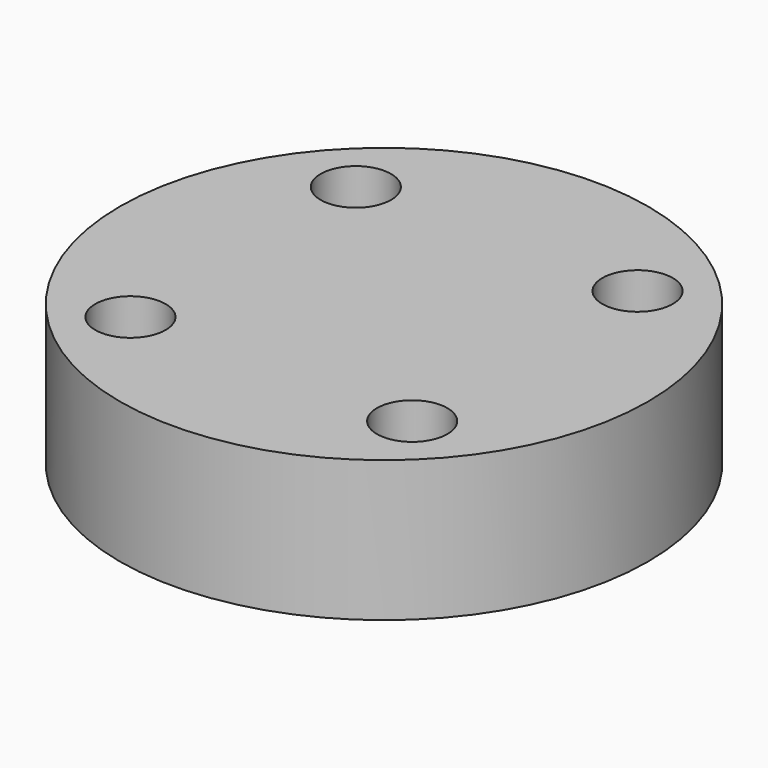
from build123d import *

# Parameters (mm, degrees)
CYLINDER1330_R     = 1
CYLINDER1330_DEPTH = 20
CYLINDER1335_R     = 1
CYLINDER1335_DEPTH = 20
CYLINDER1325_R     = 1
CYLINDER1325_DEPTH = 20
CYLINDER1337_R     = 1
CYLINDER1337_DEPTH = 20
CYLINDER1322_R     = 7.5
CYLINDER1322_DEPTH = 4


with BuildPart() as obj1:
    # Cylinder1330 → Cylinder1330 (new body)
    with BuildSketch(Plane(origin=(4, -4, -88), x_dir=(0, 1, 0), z_dir=(0, 0, 1))):
        Circle(CYLINDER1330_R)
    extrude(amount=CYLINDER1330_DEPTH)


with BuildPart() as obj2:
    # Cylinder1335 → Cylinder1335 (new body)
    with BuildSketch(Plane(origin=(4, 4, -88), x_dir=(-1, 0, 0), z_dir=(0, 0, 1))):
        Circle(CYLINDER1335_R)
    extrude(amount=CYLINDER1335_DEPTH)


with BuildPart() as obj3:
    # Cylinder1325 → Cylinder1325 (new body)
    with BuildSketch(Plane(origin=(-4, 4, -88), x_dir=(0, -1, 0), z_dir=(0, 0, 1))):
        Circle(CYLINDER1325_R)
    extrude(amount=CYLINDER1325_DEPTH)


with BuildPart() as compound941:
    # Cylinder1337 → Cylinder1337 (new body)
    with BuildSketch(Plane(origin=(-4, -4, -88), x_dir=(1, 0, 0), z_dir=(0, 0, 1))):
        Circle(CYLINDER1337_R)
    extrude(amount=CYLINDER1337_DEPTH)

    # Compound941: union obj1, obj2, obj3
    add(obj1.part)
    add(obj2.part)
    add(obj3.part)


with BuildPart() as compound941_1:
    # Compound941 placement: moved
    add(compound941.part.moved(Location((0, 0, 91))))


with BuildPart() as cut479:
    # Cylinder1322 → Cylinder1322 (new body)
    with BuildSketch(Plane.XY.offset(15)):
        Circle(CYLINDER1322_R)
    extrude(amount=CYLINDER1322_DEPTH)

    # Cut479: cut Compound941
    add(compound941_1.part, mode=Mode.SUBTRACT)


solid = cut479.part
